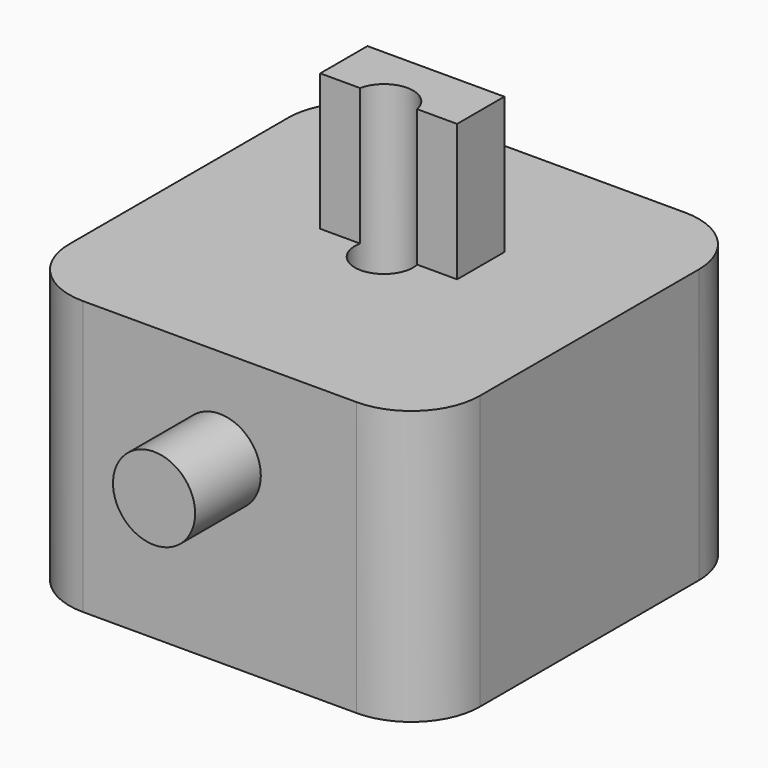
from build123d import *

# Parameters (mm, degrees)
F1_DEPTH  = 25.4
F4_W      = 12.7
F4_H      = 5.478115
F5_DEPTH  = 12.7
F3_R      = 2.658023
F6_DEPTH  = 25.4
F7_R      = 2.706584
F8_DEPTH  = 25.4
F9_R      = 3.81
F11_DEPTH = 7.62
F10_R     = 3.81
F12_DEPTH = 7.62


with BuildPart() as f1:
    # F0 (on Top) → F1 (new body)
    with BuildSketch(Plane.XY):
        with BuildLine():
            ThreePointArc((0, 6.35), (1.859872, 1.859872), (6.35, 0))
            Line((6.35, 0), (31.75, 0))
            ThreePointArc((31.75, 0), (36.240128, 1.859872), (38.1, 6.35))
            Line((38.1, 6.35), (38.1, 31.75))
            ThreePointArc((38.1, 31.75), (36.240128, 36.240128), (31.75, 38.1))
            Line((31.75, 38.1), (6.35, 38.1))
            ThreePointArc((6.35, 38.1), (1.859872, 36.240128), (0, 31.75))
            Line((0, 31.75), (0, 6.35))
        make_face()
    extrude(amount=F1_DEPTH)

    # F4 (on face) → F5 (join)
    with BuildSketch(Plane.XY.offset(25.4)):
        with Locations((19.05, 22.330752)):
            Rectangle(F4_W, F4_H)
    extrude(amount=F5_DEPTH)

    # F3 (on face) → F6 (cut)
    with BuildSketch(Plane.XY.offset(25.4)):
        with Locations((19.05, 19.05)):
            Circle(F3_R)
    extrude(amount=-F6_DEPTH, mode=Mode.SUBTRACT)

    # F7 (on face) → F8 (cut)
    with BuildSketch(Plane.XY.offset(38.1)):
        with Locations((19.05, 19.05)):
            Circle(F7_R)
    extrude(amount=-F8_DEPTH, mode=Mode.SUBTRACT)

    # F9 (on face) → F11 (join)
    with BuildSketch(Plane.XZ):
        with Locations((19.05, 16.51)):
            Circle(F9_R)
    extrude(amount=F11_DEPTH)

    # F10 (on face) → F12 (join)
    with BuildSketch(Plane(origin=(0, 38.1, 0), x_dir=(-1, 0, 0), z_dir=(0, 1, 0))):
        with Locations((-19.05, 16.51)):
            Circle(F10_R)
    extrude(amount=F12_DEPTH)


solid = f1.part
